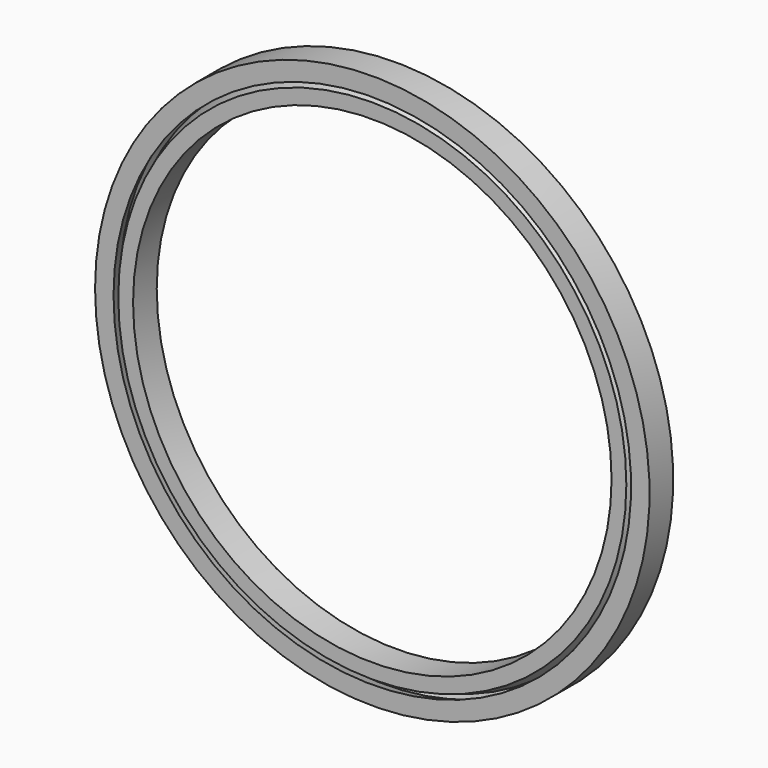
from build123d import *


with BuildPart() as f3:
    # F1 (on Top) → F3 (revolve)
    with BuildSketch(Plane.XY):
        Polygon((-71.5, -4), (-70, 0), (-75, 0), (-75, -8), (-70, -8), align=None)
        Polygon((-68.718399, 0), (-70.218399, -4), (-68.718399, -8), (-64.718399, -8), (-64.718399, 0), align=None)
    revolve(axis=Axis((0, -15.501533, 0), (0, -1, 0)))


solid = f3.part
